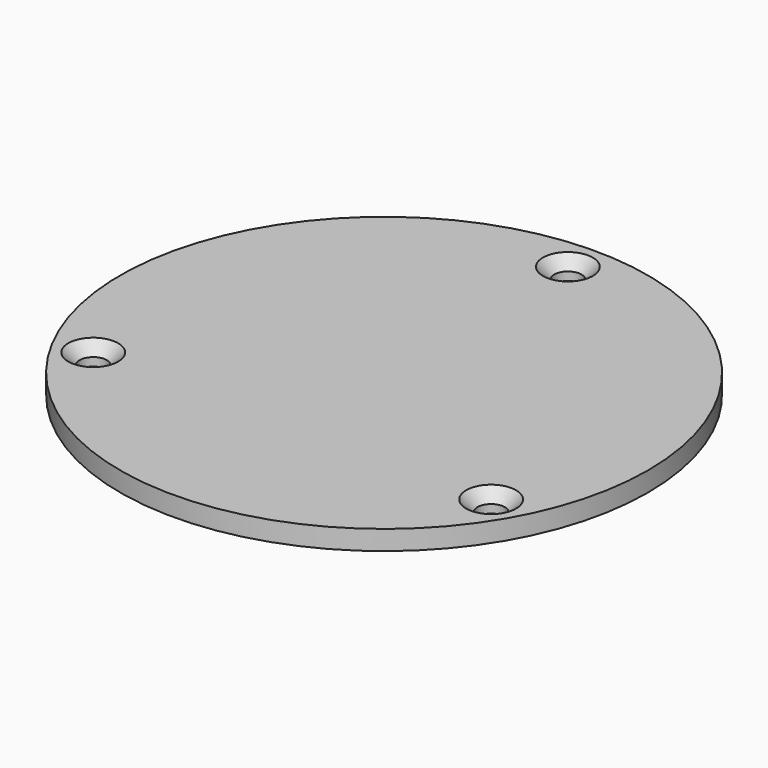
from build123d import *

# Parameters (mm, degrees)
F0_R           = 27
F1_DEPTH       = 2
F3_D           = 2.8
F3_CSINK_D     = 5.1
F3_CSINK_ANGLE = 90


with BuildPart() as f1:
    # F0 (on Top) → F1 (new body)
    with BuildSketch(Plane.XY):
        Circle(F0_R)
    extrude(amount=F1_DEPTH)

    # F3 (through all)
    with Locations(Plane.XY.offset(2)):
        with Locations((0, 23.5), (-20.351597, -11.75), (20.351597, -11.75)):
            CounterSinkHole(F3_D / 2, F3_CSINK_D / 2, counter_sink_angle=F3_CSINK_ANGLE)


solid = f1.part
